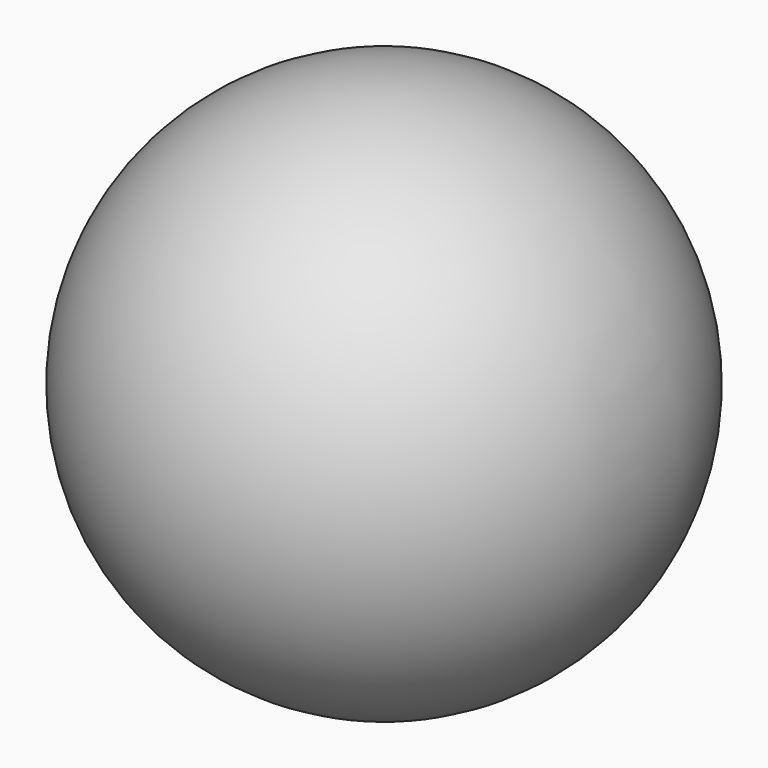
from build123d import *


with BuildPart() as f1:
    # F0 (on Front) → F1 (revolve)
    with BuildSketch(Plane.XZ):
        with BuildLine():
            Line((0, -59.584961), (0, -101.6))
            ThreePointArc((0, -101.6), (101.6, 0), (0, 101.6))
            Line((0, 101.6), (0, 59.012033))
            Line((0, 59.012033), (0, -59.584961))
        make_face()
    revolve(axis=Axis((0, 0, 0), (0, 0, -1)))


solid = f1.part
